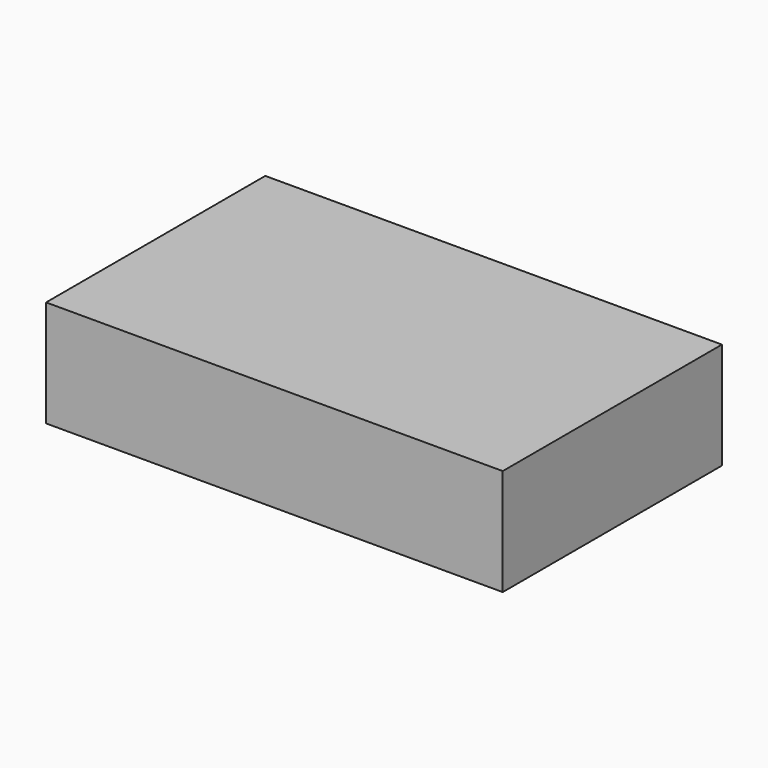
from build123d import *

# Parameters (mm, degrees)
F0_W     = 75
F0_H     = 45
F1_DEPTH = 7.5
F2_T     = -2.5
F3_W     = 75
F3_H     = 45
F4_DEPTH = 2.5
F5_R     = 6.5
F6_DEPTH = 37


with BuildPart() as f1:
    # F0 (on Top) → F1 (new body, symmetric)
    with BuildSketch(Plane.XY):
        Rectangle(F0_W, F0_H)
    extrude(amount=F1_DEPTH, both=True)

    # F2
    f2_openings = [f1.faces().sort_by_distance(p)[0] for p in [
        (0, 0, 7.5),
    ]]
    offset(amount=F2_T, openings=f2_openings)

    # F3 (on face) → F4 (join)
    with BuildSketch(Plane.XY.offset(7.5)):
        Rectangle(F3_W, F3_H)
    extrude(amount=F4_DEPTH)

    # F5 (on Right) → F6 (join, symmetric)
    with BuildSketch(Plane.YZ):
        with Locations((0, 1.25)):
            Circle(F5_R)
    extrude(amount=F6_DEPTH, both=True)


solid = f1.part
